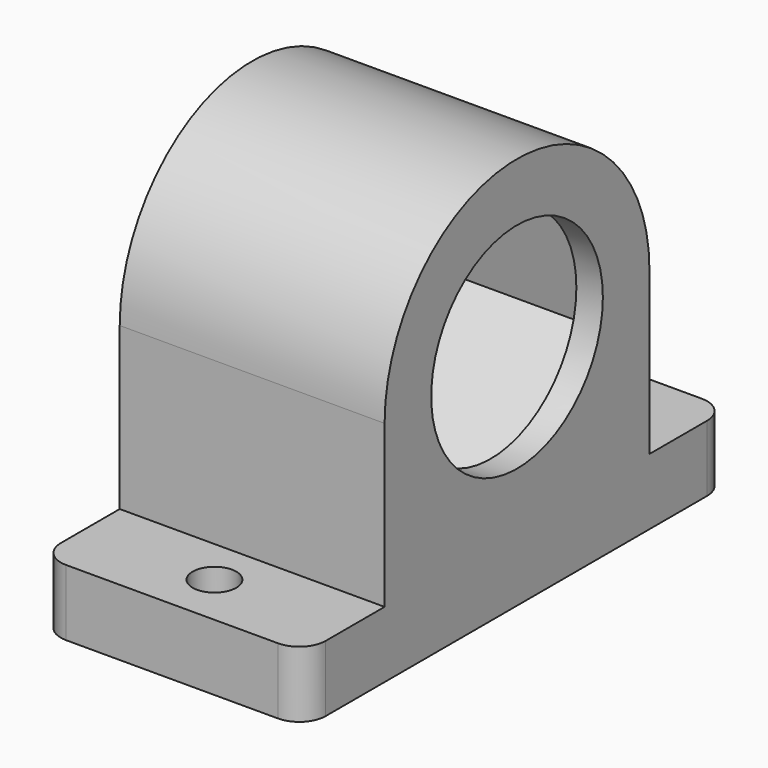
from build123d import *

# Parameters (mm, degrees)
F0_W     = 20
F0_H     = 40
F1_DEPTH = 5
F2_R     = 8.1
F3_DEPTH = 20
F5_DEPTH = 18
F6_R     = 1.65
F7_DEPTH = 29.699904
F8_R     = 2


with BuildPart() as f1:
    # F0 (on Top) → F1 (new body)
    with BuildSketch(Plane.XY):
        with Locations((-10, 20)):
            Rectangle(F0_W, F0_H)
        with Locations((-10, 20)):
            Rectangle(F0_W, F0_H)
    extrude(amount=F1_DEPTH)

    # F2 (on Right) → F3 (join)
    with BuildSketch(Plane.YZ):
        with BuildLine():
            ThreePointArc((7.556538, 17.198904), (20.056538, 4.698904), (32.556538, 17.198904))
            ThreePointArc((32.556538, 17.198904), (20.056538, 29.698904), (7.556538, 17.198904))
        make_face()
        with Locations((20.056538, 17.198904)):
            Circle(F2_R, mode=Mode.SUBTRACT)
        with BuildLine():
            Line((32.556538, 4.106051), (32.556538, 17.198904))
            ThreePointArc((32.556538, 17.198904), (20.056538, 4.698904), (7.556538, 17.198904))
            Line((7.556538, 17.198904), (7.556538, 4.106051))
            Line((7.556538, 4.106051), (32.340245, 4.106051))
            Line((32.340245, 4.106051), (32.556538, 4.106051))
        make_face()
    extrude(amount=-F3_DEPTH)

    # F4 (on face) → F5 (cut)
    with BuildSketch(Plane(origin=(-20, 0, 0), x_dir=(0, -1, 0), z_dir=(-1, 0, 0))):
        Polygon((-30.540984, 13.425348), (-22.030766, 6.232329), (-11.546319, 10.005885), (-9.572091, 20.97246), (-18.08231, 28.165478), (-28.566756, 24.391923), align=None)
    extrude(amount=-F5_DEPTH, mode=Mode.SUBTRACT)

    # F6 (on face) → F7 (cut, through all)
    with BuildSketch(Plane(origin=(0, 0, 0), x_dir=(1, 0, 0), z_dir=(0, 0, -1))):
        with Locations((-10, -4)):
            Circle(F6_R)
        with Locations((-10, -36)):
            Circle(F6_R)
    extrude(amount=-F7_DEPTH, mode=Mode.SUBTRACT)

    # F8
    f8_edges = [f1.edges().sort_by_distance(p)[0] for p in [
        (-20, 40, 2.5),
        (0, 40, 2.5),
        (0, 0, 2.5),
        (-20, 0, 2.5),
    ]]
    fillet(f8_edges, radius=F8_R)


solid = f1.part
